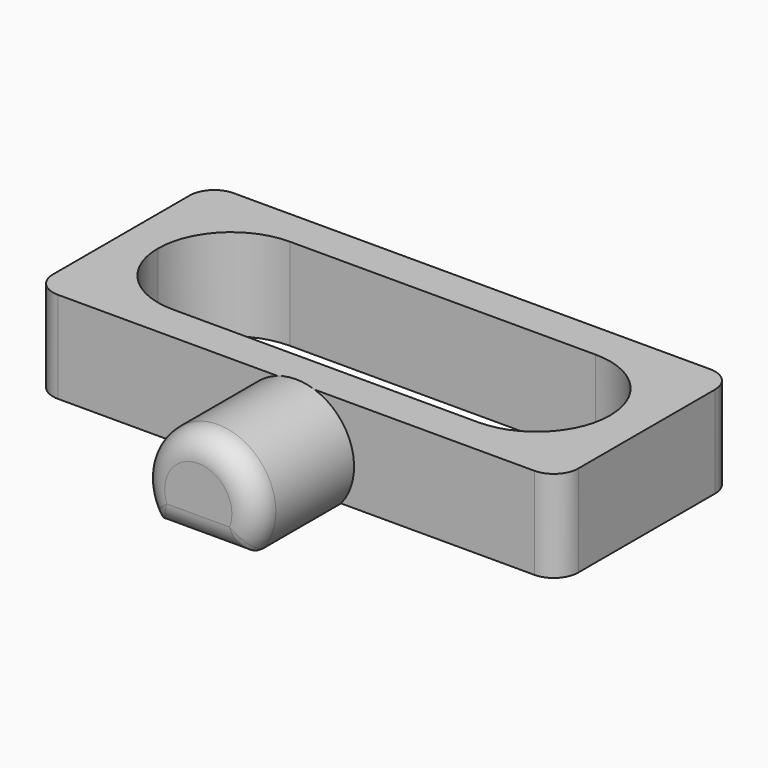
from build123d import *

# Parameters (mm, degrees)
PAD_DEPTH     = 10
SKETCH001_W   = 43
SKETCH001_H   = 18
SKETCH001_W_2 = 37
SKETCH001_H_2 = 12
PAD001_DEPTH  = 7.5
FILLET_R      = 5.99
FILLET001_R   = 2
FILLET002_R   = 2


with BuildPart() as part:
    # Sketch → Pad (new body)
    with BuildSketch(Plane.XZ):
        with BuildLine():
            ThreePointArc((3.68273, 0), (0, 7.75), (-3.68273, 0))
            Line((-3.68273, 0), (3.68273, 0))
        make_face()
    extrude(amount=PAD_DEPTH)

    # Sketch001 → Pad001 (join)
    with BuildSketch(Plane.XY):
        with Locations((0, 9)):
            Rectangle(SKETCH001_W, SKETCH001_H)
        with Locations((0, 9)):
            Rectangle(SKETCH001_W_2, SKETCH001_H_2, mode=Mode.SUBTRACT)
    extrude(amount=PAD001_DEPTH)

    # Fillet
    fillet_edges = [part.edges().sort_by_distance(p)[0] for p in [
        (-18.5, 15, 3.75),
        (-18.5, 3, 3.75),
        (18.5, 3, 3.75),
        (18.5, 15, 3.75),
    ]]
    fillet(fillet_edges, radius=FILLET_R)

    # Fillet001
    fillet001_edges = [part.edges().sort_by_distance(p)[0] for p in [
        (-21.5, 0, 3.75),
        (-21.5, 18, 3.75),
        (21.5, 18, 3.75),
        (21.5, 0, 3.75),
    ]]
    fillet(fillet001_edges, radius=FILLET001_R)

    # Fillet002
    fillet002_edges = [part.edges().sort_by_distance(p)[0] for p in [
        (0, -10, 7.75),
        (0, -10, 0),
    ]]
    fillet(fillet002_edges, radius=FILLET002_R)


solid = part.part
